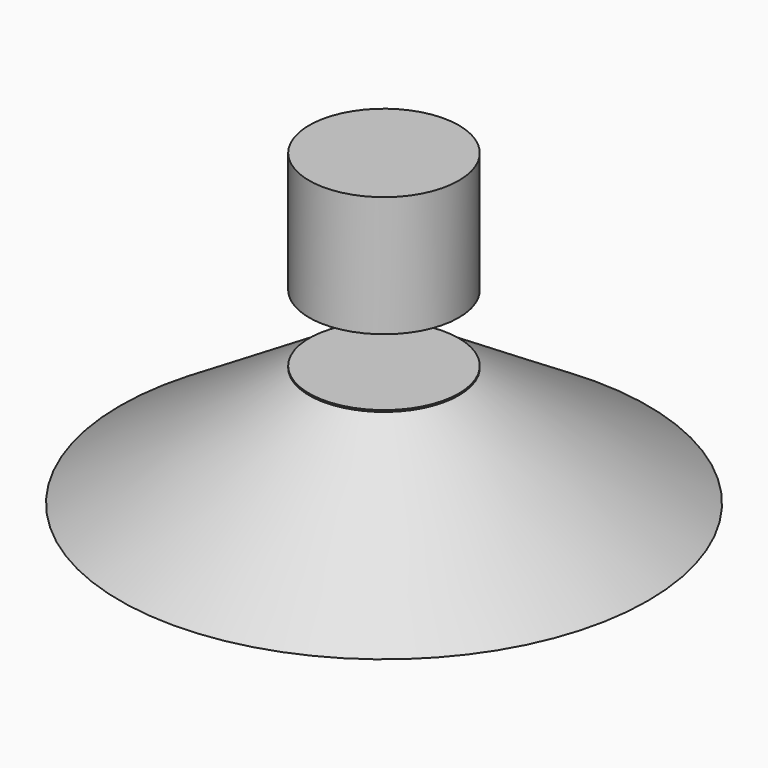
from build123d import *

# Parameters (mm, degrees)
F2_W = 11.047998
F2_H = 9.604889


with BuildPart() as f1:
    # F0 (on Front) → F1 (revolve)
    with BuildSketch(Plane.XZ):
        Polygon((0, 44.358619), (0, 0), (37.967291, 0), (10.766834, 17.158164), (10.766834, 44.358619), align=None)
    revolve(axis=Axis((0, 0, 22.179309), (0, 0, 1)))

    # F2 (on Right) → F3 (revolve, cut)
    with BuildSketch(Plane.YZ):
        with Locations((-5.523999, 22.20278)):
            Rectangle(F2_W, F2_H)
    revolve(axis=Axis((0, 0, 22.20278), (0, 0, -1)), mode=Mode.SUBTRACT)


solid = f1.part
